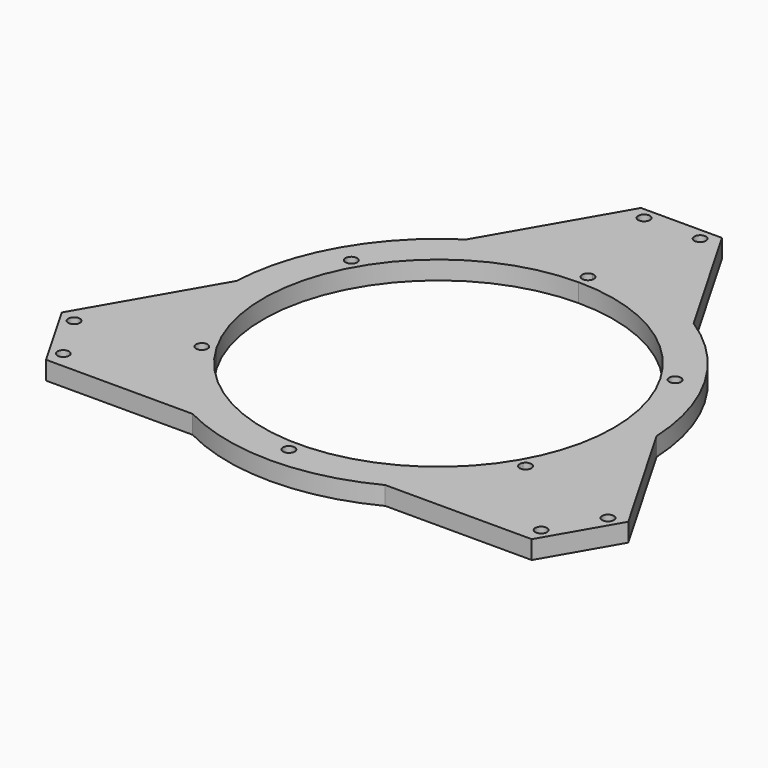
from build123d import *

# Parameters (mm, degrees)
F0_R     = 1.5875
F1_DEPTH = 5


with BuildPart() as f1:
    # F0 (on Top) → F1 (new body)
    with BuildSketch(Plane.XY):
        with BuildLine():
            Line((0, 52.3875), (0, 82.55))
            Line((0, 82.55), (-10.998523, 82.55))
            Line((-10.998523, 82.55), (-30.90323, 48.074035))
            ThreePointArc((-30.90323, 48.074035), (-49.493352, 28.575), (-57.084951, 2.725965))
            Line((-57.084951, 2.725965), (-76.989658, -31.75))
            Line((-76.989658, -31.75), (-71.490397, -41.275))
            Line((-71.490397, -41.275), (-45.368906, -26.19375))
            ThreePointArc((-45.368906, -26.19375), (-44.787841, -24.025185), (-42.619275, -24.60625))
            Line((-42.619275, -24.60625), (-41.24446, -23.8125))
            ThreePointArc((-41.24446, -23.8125), (-41.24446, 23.8125), (0, 47.625))
            Line((0, 47.625), (0, 49.2125))
            ThreePointArc((0, 49.2125), (-1.5875, 50.8), (0, 52.3875))
        make_face()
        with Locations((-72.550766, -33.088386)):
            Circle(F0_R, mode=Mode.SUBTRACT)
        with Locations((-43.994091, 25.4)):
            Circle(F0_R, mode=Mode.SUBTRACT)
        with Locations((-7.62, 79.375)):
            Circle(F0_R, mode=Mode.SUBTRACT)
        with BuildLine():
            Line((30.90323, 48.074035), (10.998523, 82.55))
            Line((10.998523, 82.55), (0, 82.55))
            Line((0, 82.55), (0, 52.3875))
            ThreePointArc((0, 52.3875), (1.122532, 51.922532), (1.5875, 50.8))
            ThreePointArc((1.5875, 50.8), (1.122532, 49.677468), (0, 49.2125))
            Line((0, 49.2125), (0, 47.625))
            ThreePointArc((0, 47.625), (33.67596, 33.67596), (47.625, 0))
            ThreePointArc((47.625, 0), (46.002217, -12.326257), (41.24446, -23.8125))
            Line((41.24446, -23.8125), (42.619275, -24.60625))
            ThreePointArc((42.619275, -24.60625), (44.404966, -23.866593), (45.581591, -25.4))
            ThreePointArc((45.581591, -25.4), (45.527498, -25.810875), (45.368906, -26.19375))
            Line((45.368906, -26.19375), (71.490397, -41.275))
            Line((71.490397, -41.275), (76.989658, -31.75))
            Line((76.989658, -31.75), (57.084951, 2.725965))
            ThreePointArc((57.084951, 2.725965), (49.493352, 28.575), (30.90323, 48.074035))
        make_face()
        with Locations((72.550766, -33.088386)):
            Circle(F0_R, mode=Mode.SUBTRACT)
        with Locations((43.994091, 25.4)):
            Circle(F0_R, mode=Mode.SUBTRACT)
        with Locations((7.62, 79.375)):
            Circle(F0_R, mode=Mode.SUBTRACT)
        with BuildLine():
            Line((65.991136, -50.8), (71.490397, -41.275))
            Line((71.490397, -41.275), (45.368906, -26.19375))
            ThreePointArc((45.368906, -26.19375), (43.200341, -26.774815), (42.619275, -24.60625))
            Line((42.619275, -24.60625), (41.24446, -23.8125))
            ThreePointArc((41.24446, -23.8125), (0, -47.625), (-41.24446, -23.8125))
            Line((-41.24446, -23.8125), (-42.619275, -24.60625))
            ThreePointArc((-42.619275, -24.60625), (-42.460683, -24.989125), (-42.406591, -25.4))
            ThreePointArc((-42.406591, -25.4), (-43.583215, -26.933407), (-45.368906, -26.19375))
            Line((-45.368906, -26.19375), (-71.490397, -41.275))
            Line((-71.490397, -41.275), (-65.991136, -50.8))
            Line((-65.991136, -50.8), (-26.181721, -50.8))
            ThreePointArc((-26.181721, -50.8), (0, -57.15), (26.181721, -50.8))
            Line((26.181721, -50.8), (65.991136, -50.8))
        make_face()
        with Locations((-64.930766, -46.286614)):
            Circle(F0_R, mode=Mode.SUBTRACT)
        with Locations((0, -50.8)):
            Circle(F0_R, mode=Mode.SUBTRACT)
        with Locations((64.930766, -46.286614)):
            Circle(F0_R, mode=Mode.SUBTRACT)
    extrude(amount=F1_DEPTH)


solid = f1.part
